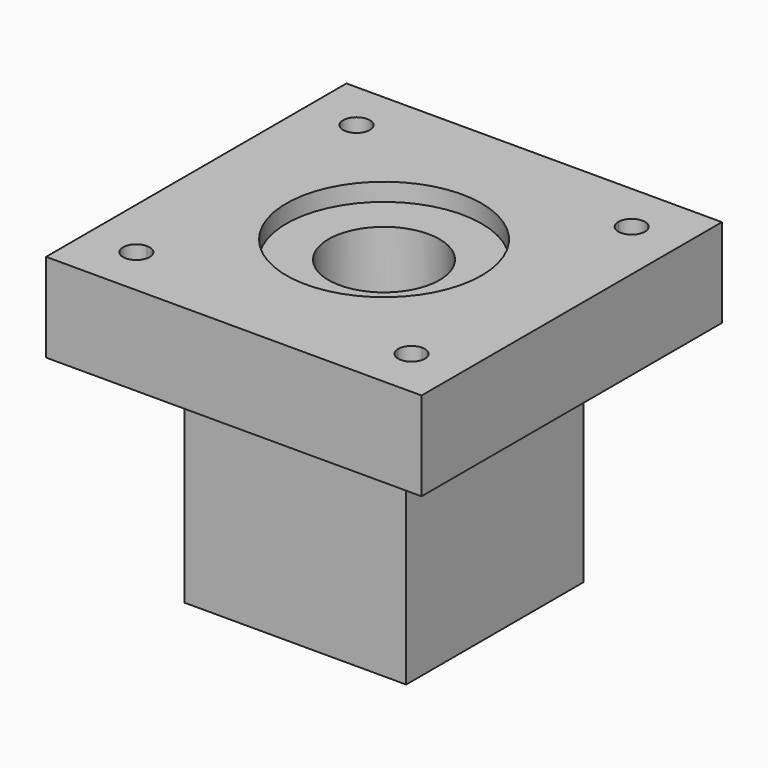
from build123d import *

# Parameters (mm, degrees)
F0_W     = 42.3
F0_H     = 42.3
F0_R     = 7.5
F0_R_2   = 2.5
F1_DEPTH = 10
F2_R     = 11
F3_DEPTH = 2
F4_W     = 25
F4_H     = 25
F4_W_2   = 15
F4_H_2   = 15
F4_R     = 2.5
F5_DEPTH = 25
F6_R     = 6.25
F7_DEPTH = 10


with BuildPart() as f1:
    # F0 (on Top) → F1 (new body)
    with BuildSketch(Plane.XY):
        Rectangle(F0_W, F0_H)
        with BuildLine():
            Line((14, -15.5), (-14, -15.5))
            ThreePointArc((-14, -15.5), (-16.5606601718, -16.5606601718), (-15.5, -14))
            Line((-15.5, -14), (-15.5, 14))
            ThreePointArc((-15.5, 14), (-16.5606601718, 16.5606601718), (-14, 15.5))
            Line((-14, 15.5), (14, 15.5))
            ThreePointArc((14, 15.5), (15.5, 17), (17, 15.5))
            ThreePointArc((17, 15.5), (16.5606601718, 14.4393398282), (15.5, 14))
            Line((15.5, 14), (15.5, -14))
            ThreePointArc((15.5, -14), (16.5606601718, -14.4393398282), (17, -15.5))
            ThreePointArc((17, -15.5), (15.5, -17), (14, -15.5))
        make_face(mode=Mode.SUBTRACT)
        with BuildLine():
            ThreePointArc((-15.5, -14), (-14.4393398282, -14.4393398282), (-14, -15.5))
            Line((-14, -15.5), (14, -15.5))
            ThreePointArc((14, -15.5), (14.4393398282, -14.4393398282), (15.5, -14))
            Line((15.5, -14), (15.5, 14))
            ThreePointArc((15.5, 14), (14.4393398282, 14.4393398282), (14, 15.5))
            Line((14, 15.5), (-14, 15.5))
            ThreePointArc((-14, 15.5), (-14.4393398282, 14.4393398282), (-15.5, 14))
            Line((-15.5, 14), (-15.5, -14))
        make_face()
        Circle(F0_R, mode=Mode.SUBTRACT)
        Circle(F0_R)
        Circle(F0_R_2, mode=Mode.SUBTRACT)
    extrude(amount=F1_DEPTH)

    # F2 (on face) → F3 (cut)
    with BuildSketch(Plane.XY.offset(10)):
        Circle(F2_R)
    extrude(amount=-F3_DEPTH, mode=Mode.SUBTRACT)

    # F4 (on face) → F5 (join)
    with BuildSketch(Plane(origin=(0, 0, 0), x_dir=(1, 0, 0), z_dir=(0, 0, -1))):
        Rectangle(F4_W, F4_H)
        Polygon((-10, 7.5), (-10, 10), (10, 10), (10, 7.5), (10, -10), (-10, -10), align=None, mode=Mode.SUBTRACT)
        Rectangle(F4_W_2, F4_H_2)
        Circle(F4_R, mode=Mode.SUBTRACT)
        Polygon((10, 10), (-10, 10), (-10, 7.5), (-7.5, 7.5), (7.5, 7.5), (10, 7.5), align=None)
    extrude(amount=F5_DEPTH)

    # F6 (on face) → F7 (cut)
    with BuildSketch(Plane.XY.offset(8)):
        Circle(F6_R)
    extrude(amount=-F7_DEPTH, mode=Mode.SUBTRACT)


solid = f1.part
